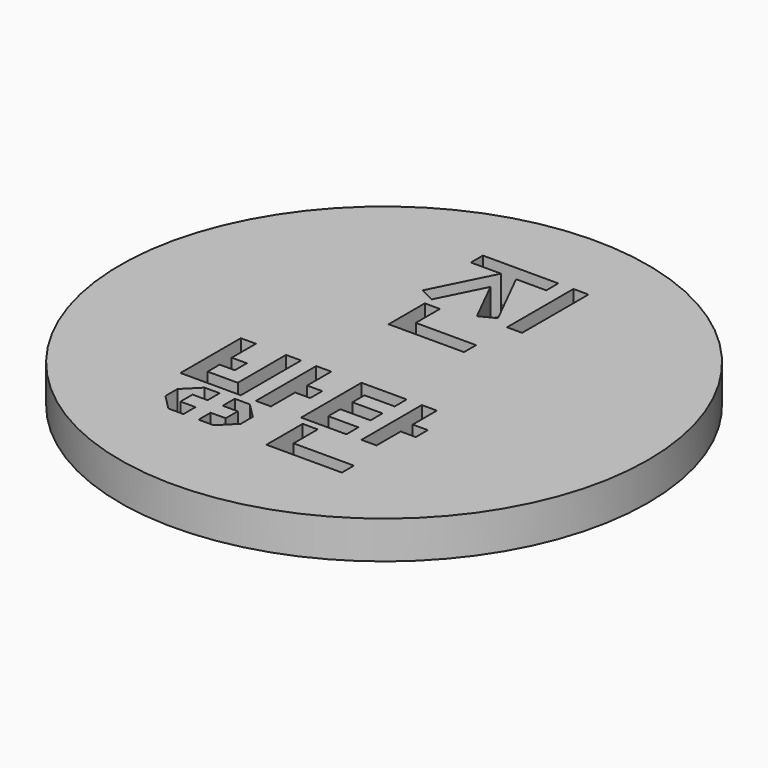
from build123d import *

# Parameters (mm, degrees)
F0_R     = 35
F0_W     = 2
F0_H     = 11
F1_DEPTH = 5


with BuildPart() as f1:
    # F0 (on Top) → F1 (new body)
    with BuildSketch(Plane.XY):
        with Locations((-26.943825, -4.248025)):
            Circle(F0_R)
        Polygon((-39.943825, -22.248025), (-37.944429, -20.248025), (-35.944429, -20.248025), (-35.944429, -22.248025), (-37.944429, -22.248025), (-37.944429, -24.248025), (-35.944429, -24.248025), (-35.944429, -26.248025), (-37.944429, -26.248025), (-39.943825, -24.248025), align=None, mode=Mode.SUBTRACT)
        Polygon((-31.944429, -20.248025), (-29.945033, -22.248025), (-29.945033, -24.248025), (-31.944429, -26.248025), (-33.944429, -26.248025), (-33.944429, -24.248025), (-31.944429, -24.248025), (-31.944429, -22.248025), (-33.944429, -22.248025), (-33.944429, -20.248025), align=None, mode=Mode.SUBTRACT)
        Polygon((-41.943825, -19.248025), (-41.943825, -9.248025), (-39.943825, -9.248025), (-39.943825, -13.248025), (-37.943825, -13.248025), (-37.943825, -15.248025), (-39.943825, -15.248025), (-39.943825, -17.248025), (-35.943825, -17.248025), (-35.943825, -9.248025), (-33.943825, -9.248025), (-33.943825, -19.248025), (-39.943825, -19.248025), align=None, mode=Mode.SUBTRACT)
        Polygon((-31.943825, -9.248025), (-29.943825, -9.248025), (-29.943825, -13.248025), (-27.943825, -13.248025), (-27.943825, -15.248025), (-29.943825, -15.248025), (-29.943825, -19.248025), (-31.943825, -19.248025), align=None, mode=Mode.SUBTRACT)
        Polygon((-24.943825, -26.248025), (-24.943825, -20.248025), (-22.943825, -20.248025), (-22.943825, -24.248025), (-14.943825, -24.248025), (-14.943825, -26.248025), align=None, mode=Mode.SUBTRACT)
        Polygon((-25.943825, -19.248025), (-25.943825, -9.248025), (-19.943825, -9.248025), (-19.943825, -11.248025), (-23.943825, -11.248025), (-23.943825, -13.248025), (-19.943825, -13.248025), (-19.943825, -15.248025), (-23.943825, -15.248025), (-23.943825, -17.248025), (-19.943825, -17.248025), (-19.943825, -19.248025), (-24.943825, -19.248025), align=None, mode=Mode.SUBTRACT)
        Polygon((-17.943825, -19.248025), (-17.943825, -9.248025), (-15.943825, -9.248025), (-15.943825, -13.248025), (-13.943825, -13.248025), (-13.943825, -15.248025), (-15.943825, -15.248025), (-15.943825, -19.248025), align=None, mode=Mode.SUBTRACT)
        Polygon((-33.943825, 18.883266), (-33.943825, 20.883266), (-23.943825, 20.883266), (-23.943825, 18.883266), (-27.943825, 18.883266), (-23.943825, 10.88357), (-25.943597, 9.883266), (-28.944782, 15.883129), (-31.943825, 9.883266), (-33.943825, 10.88357), (-29.943825, 18.883266), align=None, mode=Mode.SUBTRACT)
        Polygon((-29.943825, 8.751975), (-29.943825, 5.751975), (-29.943825, 4.751975), (-21.943825, 4.751975), (-21.943825, 2.751975), (-31.943825, 2.751975), (-31.943825, 8.751975), align=None, mode=Mode.SUBTRACT)
        with Locations((-20.943825, 15.383266)):
            Rectangle(F0_W, F0_H, mode=Mode.SUBTRACT)
    extrude(amount=F1_DEPTH)


solid = f1.part
